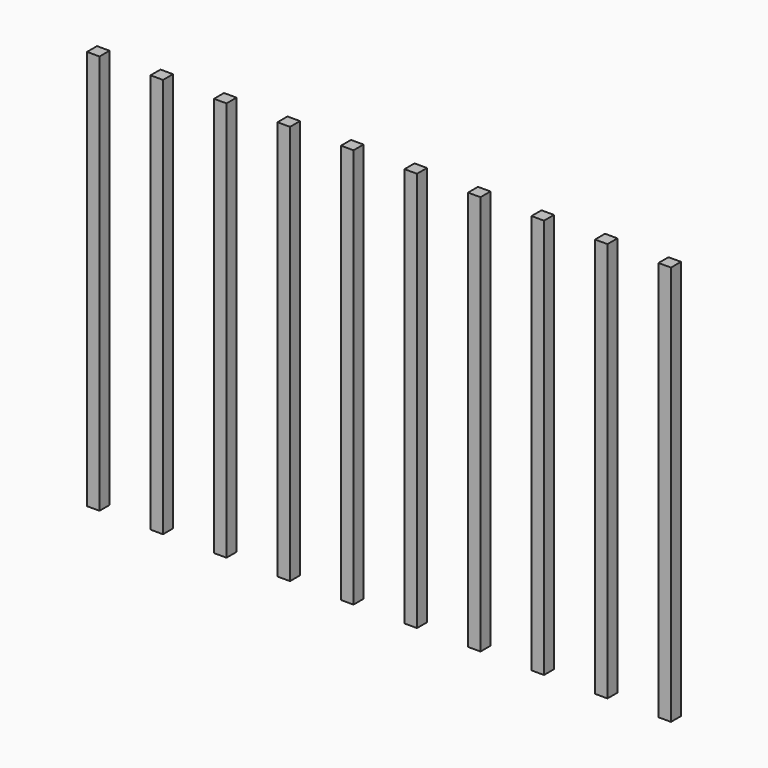
from build123d import *

# Parameters (mm, degrees)
BOX009_W     = 0.5
BOX009_H     = 0.5
BOX009_DEPTH = 16
BOX010_W     = 0.5
BOX010_H     = 0.5
BOX010_DEPTH = 16
BOX012_W     = 0.5
BOX012_H     = 0.5
BOX012_DEPTH = 16
BOX013_W     = 0.5
BOX013_H     = 0.5
BOX013_DEPTH = 16
BOX011_W     = 0.5
BOX011_H     = 0.5
BOX011_DEPTH = 16
BOX006_W     = 0.5
BOX006_H     = 0.5
BOX006_DEPTH = 16
BOX007_W     = 0.5
BOX007_H     = 0.5
BOX007_DEPTH = 16
BOX008_W     = 0.5
BOX008_H     = 0.5
BOX008_DEPTH = 16
BOX005_W     = 0.5
BOX005_H     = 0.5
BOX005_DEPTH = 16
BOX004_W     = 0.5
BOX004_H     = 0.5
BOX004_DEPTH = 16


with BuildPart() as obj1:
    # Box009 → Box009 (new body)
    with BuildSketch(Plane(origin=(18.78, 2.28, -2.5), x_dir=(1, 0, 0), z_dir=(0, 0, 1))):
        with Locations((0.25, 0.25)):
            Rectangle(BOX009_W, BOX009_H)
    extrude(amount=BOX009_DEPTH)


with BuildPart() as obj2:
    # Box010 → Box010 (new body)
    with BuildSketch(Plane(origin=(21.32, 2.28, -2.5), x_dir=(1, 0, 0), z_dir=(0, 0, 1))):
        with Locations((0.25, 0.25)):
            Rectangle(BOX010_W, BOX010_H)
    extrude(amount=BOX010_DEPTH)


with BuildPart() as obj3:
    # Box012 → Box012 (new body)
    with BuildSketch(Plane(origin=(23.86, 2.28, -2.5), x_dir=(1, 0, 0), z_dir=(0, 0, 1))):
        with Locations((0.25, 0.25)):
            Rectangle(BOX012_W, BOX012_H)
    extrude(amount=BOX012_DEPTH)


with BuildPart() as obj4:
    # Box013 → Box013 (new body)
    with BuildSketch(Plane(origin=(16.24, 2.28, -2.5), x_dir=(1, 0, 0), z_dir=(0, 0, 1))):
        with Locations((0.25, 0.25)):
            Rectangle(BOX013_W, BOX013_H)
    extrude(amount=BOX013_DEPTH)


with BuildPart() as fusion004:
    # Box011 → Box011 (new body)
    with BuildSketch(Plane(origin=(13.7, 2.28, -2.5), x_dir=(1, 0, 0), z_dir=(0, 0, 1))):
        with Locations((0.25, 0.25)):
            Rectangle(BOX011_W, BOX011_H)
    extrude(amount=BOX011_DEPTH)

    # Fusion004: union obj1, obj2, obj3, obj4
    add(obj1.part)
    add(obj2.part)
    add(obj3.part)
    add(obj4.part)


with BuildPart() as fusion004_1:
    # Fusion004 placement: moved
    add(fusion004.part.moved(Location((12.7, 0, 0))))


with BuildPart() as obj5:
    # Box006 → Box006 (new body)
    with BuildSketch(Plane(origin=(18.78, 2.28, -2.5), x_dir=(1, 0, 0), z_dir=(0, 0, 1))):
        with Locations((0.25, 0.25)):
            Rectangle(BOX006_W, BOX006_H)
    extrude(amount=BOX006_DEPTH)


with BuildPart() as obj6:
    # Box007 → Box007 (new body)
    with BuildSketch(Plane(origin=(21.32, 2.28, -2.5), x_dir=(1, 0, 0), z_dir=(0, 0, 1))):
        with Locations((0.25, 0.25)):
            Rectangle(BOX007_W, BOX007_H)
    extrude(amount=BOX007_DEPTH)


with BuildPart() as obj7:
    # Box008 → Box008 (new body)
    with BuildSketch(Plane(origin=(23.86, 2.28, -2.5), x_dir=(1, 0, 0), z_dir=(0, 0, 1))):
        with Locations((0.25, 0.25)):
            Rectangle(BOX008_W, BOX008_H)
    extrude(amount=BOX008_DEPTH)


with BuildPart() as obj8:
    # Box005 → Box005 (new body)
    with BuildSketch(Plane(origin=(16.24, 2.28, -2.5), x_dir=(1, 0, 0), z_dir=(0, 0, 1))):
        with Locations((0.25, 0.25)):
            Rectangle(BOX005_W, BOX005_H)
    extrude(amount=BOX005_DEPTH)


with BuildPart() as fusion005:
    # Box004 → Box004 (new body)
    with BuildSketch(Plane(origin=(13.7, 2.28, -2.5), x_dir=(1, 0, 0), z_dir=(0, 0, 1))):
        with Locations((0.25, 0.25)):
            Rectangle(BOX004_W, BOX004_H)
    extrude(amount=BOX004_DEPTH)

    # Fusion003: union obj5, obj6, obj7, obj8
    add(obj5.part)
    add(obj6.part)
    add(obj7.part)
    add(obj8.part)

    # Fusion005: union Fusion004
    add(fusion004_1.part)


solid = fusion005.part
